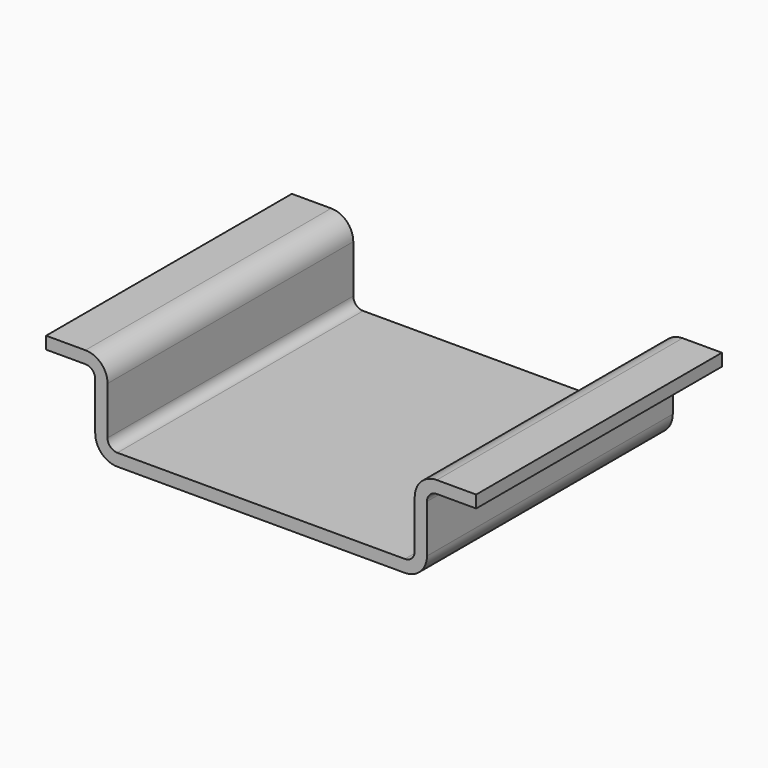
from build123d import *

# Parameters (mm, degrees)
F1_DEPTH = 25


with BuildPart() as f1:
    # F0 (on Front) → F1 (new body)
    with BuildSketch(Plane.XZ):
        with BuildLine():
            Line((-11.7, 0), (0, 0))
            Line((0, 0), (11.7, 0))
            ThreePointArc((11.7, 0), (12.972792, 0.527208), (13.5, 1.8))
            Line((13.5, 1.8), (13.5, 5.7))
            ThreePointArc((13.5, 5.7), (13.734315, 6.265685), (14.3, 6.5))
            Line((14.3, 6.5), (17.5, 6.5))
            Line((17.5, 6.5), (17.5, 7.5))
            Line((17.5, 7.5), (14.3, 7.5))
            ThreePointArc((14.3, 7.5), (13.027208, 6.972792), (12.5, 5.7))
            Line((12.5, 5.7), (12.5, 1.8))
            ThreePointArc((12.5, 1.8), (12.265685, 1.234315), (11.7, 1))
            Line((11.7, 1), (0, 1))
            Line((0, 1), (-11.7, 1))
            ThreePointArc((-11.7, 1), (-12.265685, 1.234315), (-12.5, 1.8))
            Line((-12.5, 1.8), (-12.5, 5.7))
            ThreePointArc((-12.5, 5.7), (-13.027208, 6.972792), (-14.3, 7.5))
            Line((-14.3, 7.5), (-17.5, 7.5))
            Line((-17.5, 7.5), (-17.5, 6.5))
            Line((-17.5, 6.5), (-14.3, 6.5))
            ThreePointArc((-14.3, 6.5), (-13.734315, 6.265685), (-13.5, 5.7))
            Line((-13.5, 5.7), (-13.5, 1.8))
            ThreePointArc((-13.5, 1.8), (-12.972792, 0.527208), (-11.7, 0))
        make_face()
    extrude(amount=F1_DEPTH)


solid = f1.part
